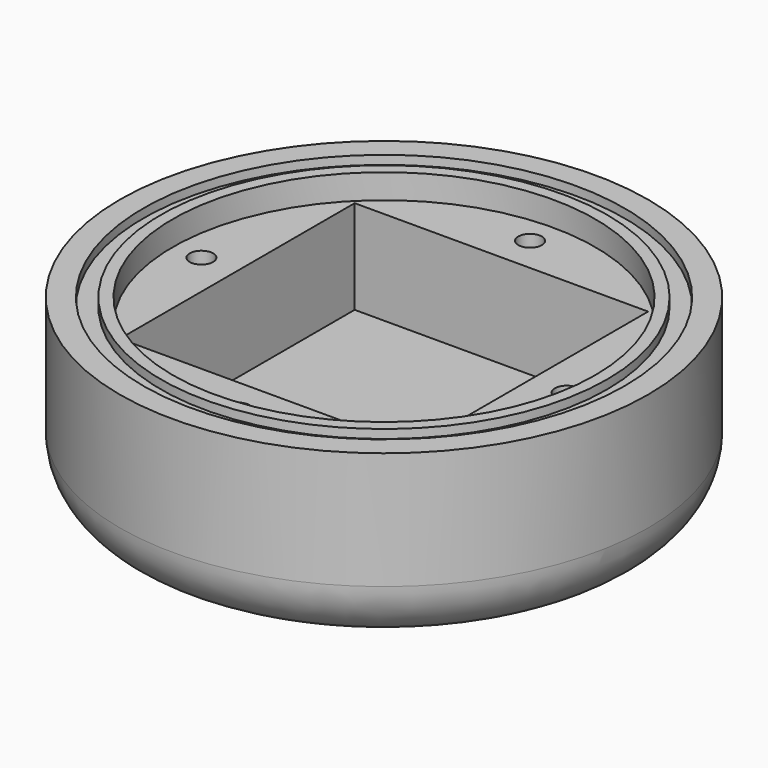
from build123d import *

# Parameters (mm, degrees)
F0_R      = 22.5
F1_DEPTH  = 15
F2_R      = 18
F3_DEPTH  = 2.1
F4_W      = 25
F4_H      = 25
F5_DEPTH  = 8
F6_R      = 5
F7_R      = 1
F8_DEPTH  = 5
F9_R      = 20.5
F9_R_2    = 19
F10_DEPTH = 0.75


with BuildPart() as f1:
    # F0 (on Top) → F1 (new body)
    with BuildSketch(Plane.XY):
        Circle(F0_R)
    extrude(amount=F1_DEPTH)

    # F2 (on face) → F3 (cut)
    with BuildSketch(Plane.XY.offset(15)):
        Circle(F2_R)
    extrude(amount=-F3_DEPTH, mode=Mode.SUBTRACT)

    # F4 (on face) → F5 (cut)
    with BuildSketch(Plane.XY.offset(12.9)):
        Rectangle(F4_W, F4_H)
    extrude(amount=-F5_DEPTH, mode=Mode.SUBTRACT)

    # F6
    f6_edges = [f1.edges().sort_by_distance(p)[0] for p in [
        (-22.5, 0, 0),
    ]]
    fillet(f6_edges, radius=F6_R)

    # F7 (on face) → F8 (cut)
    with BuildSketch(Plane.XY.offset(12.9)):
        with Locations((0, 15.556349)):
            Circle(F7_R)
        with Locations((15.556349, 0)):
            Circle(F7_R)
        with Locations((-15.556349, 0)):
            Circle(F7_R)
        with Locations((0, -15.556349)):
            Circle(F7_R)
    extrude(amount=-F8_DEPTH, mode=Mode.SUBTRACT)

    # F9 (on face) → F10 (cut)
    with BuildSketch(Plane.XY.offset(15)):
        Circle(F9_R)
        Circle(F9_R_2, mode=Mode.SUBTRACT)
    extrude(amount=-F10_DEPTH, mode=Mode.SUBTRACT)


solid = f1.part
